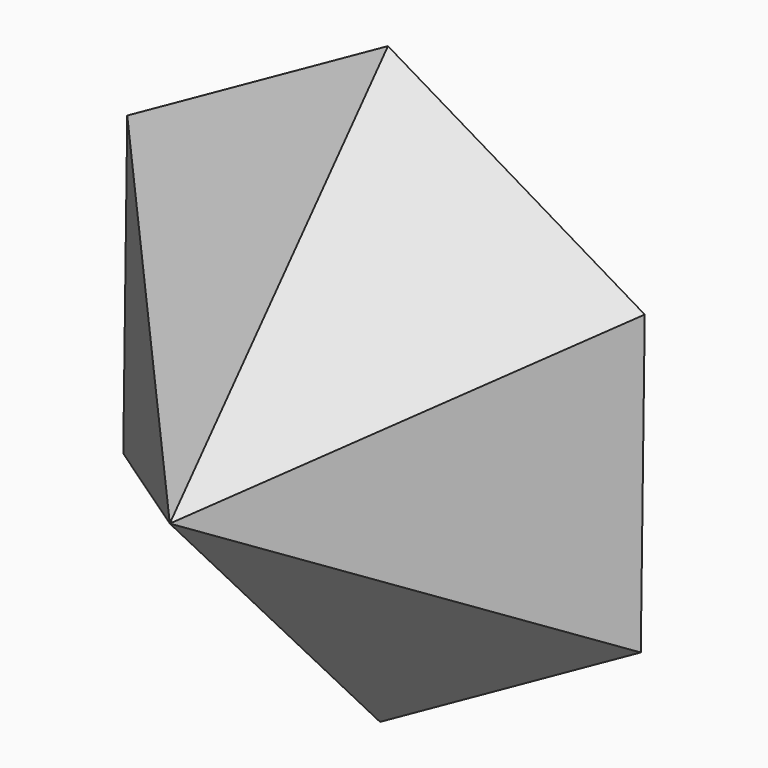
from build123d import *


with BuildPart() as f3:
    # F0 (on Front) → F3 section 0
    with BuildSketch(Plane.XZ, mode=Mode.PRIVATE) as f3_s0:
        Polygon((1.213273, 91.136256), (-78.319676, 46.618853), (-79.532949, -44.517403), (-1.213273, -91.136256), (78.319676, -46.618853), (79.532949, 44.517403), align=None)
    loft([f3_s0.sketch, Vertex(14.658035, -100, 7.94503)])


solid = f3.part
